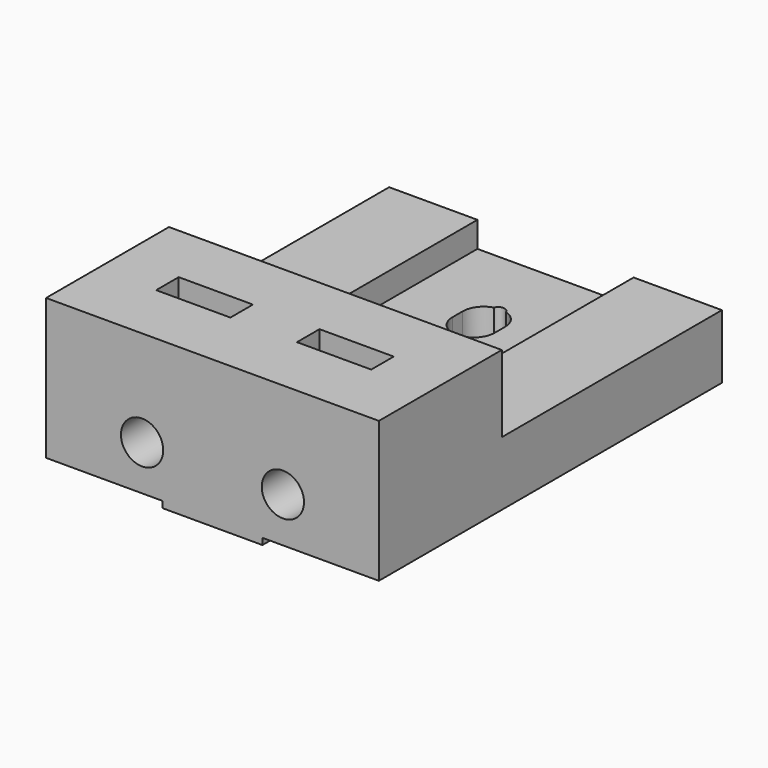
from build123d import *

# Parameters (mm, degrees)
BOX095_W           = 5.8
BOX095_H           = 2.2
BOX095_DEPTH       = 11
BOX096_W           = 5.8
BOX096_H           = 2.2
BOX096_DEPTH       = 11
CYLINDER028_R      = 1.65
CYLINDER028_DEPTH  = 10
CYLINDER029_R      = 1.65
CYLINDER029_DEPTH  = 10
BOX169_W           = 7.8
BOX169_H           = 5.5
BOX169_DEPTH       = 6
CHAMFER008003_SIZE = 5
BOX093_W           = 7.8
BOX093_H           = 5.5
BOX093_DEPTH       = 4
CYLINDER027_R      = 0.5
CYLINDER027_DEPTH  = 13
CYLINDER067_R      = 1.65
CYLINDER067_DEPTH  = 13
BOX105_W           = 3.3
BOX105_H           = 1
BOX105_DEPTH       = 10
CYLINDER030_R      = 1.65
CYLINDER030_DEPTH  = 13
BOX102_W           = 12.2
BOX102_H           = 18.6
BOX102_DEPTH       = 2
BOX104_W           = 26
BOX104_H           = 33.5
BOX104_DEPTH       = 3
BOX100_W           = 26
BOX100_H           = 12
BOX100_DEPTH       = 11
BOX099_W           = 7
BOX099_H           = 33.5
BOX099_DEPTH       = 5
BOX098_W           = 7
BOX098_H           = 33.5
BOX098_DEPTH       = 5
BOX168_W           = 7.8
BOX168_H           = 33.5
BOX168_DEPTH       = 0.5
BOX101_W           = 26
BOX101_H           = 15
BOX101_DEPTH       = 5


with BuildPart() as box095:
    # Box095 → Box095 (new body)
    with BuildSketch(Plane(origin=(2.6, 5, 0.5), x_dir=(1, 0, 0), z_dir=(0, 0, 1))):
        with Locations((2.9, 1.1)):
            Rectangle(BOX095_W, BOX095_H)
    extrude(amount=BOX095_DEPTH)


with BuildPart() as box096:
    # Box096 → Box096 (new body)
    with BuildSketch(Plane(origin=(-8.4, 5, 0.5), x_dir=(1, 0, 0), z_dir=(0, 0, 1))):
        with Locations((2.9, 1.1)):
            Rectangle(BOX096_W, BOX096_H)
    extrude(amount=BOX096_DEPTH)


with BuildPart() as cylinder028:
    # Cylinder028 → Cylinder028 (new body)
    with BuildSketch(Plane(origin=(-5.5, 10, 3.5), x_dir=(1, 0, 0), z_dir=(0, -1, 0))):
        Circle(CYLINDER028_R)
    extrude(amount=CYLINDER028_DEPTH)


with BuildPart() as fusion032:
    # Cylinder029 → Cylinder029 (new body)
    with BuildSketch(Plane(origin=(5.5, 10, 3.5), x_dir=(1, 0, 0), z_dir=(0, -1, 0))):
        Circle(CYLINDER029_R)
    extrude(amount=CYLINDER029_DEPTH)

    # Fusion032: union Cylinder028
    add(cylinder028.part)


with BuildPart() as chamfer008003:
    # Box169 → Box169 (new body)
    with BuildSketch(Plane(origin=(-3.9, 8, -11), x_dir=(1, 0, 0), z_dir=(0, 0, 1))):
        with Locations((3.9, 2.75)):
            Rectangle(BOX169_W, BOX169_H)
    extrude(amount=BOX169_DEPTH)

    # Chamfer008003
    chamfer008003_edges = [chamfer008003.edges().sort_by_distance(p)[0] for p in [
        (0, 13.5, -5),
    ]]
    chamfer(chamfer008003_edges, length=CHAMFER008003_SIZE)


with BuildPart() as chamfer008003_1:
    # Chamfer008003 placement: moved
    add(chamfer008003.part.moved(Location((0, 4, 5))))


with BuildPart() as cut001003002044:
    # Box093 → Box093 (new body)
    with BuildSketch(Plane(origin=(-3.9, 13, -4), x_dir=(1, 0, 0), z_dir=(0, 0, 1))):
        with Locations((3.9, 2.75)):
            Rectangle(BOX093_W, BOX093_H)
    extrude(amount=BOX093_DEPTH)

    # Cut001003002044: cut Chamfer008003
    add(chamfer008003_1.part, mode=Mode.SUBTRACT)


with BuildPart() as rail_bolt013:
    # Cylinder027 → Cylinder027 (new body)
    with BuildSketch(Plane(origin=(0, 27.9, -0.5), x_dir=(1, 0, 0), z_dir=(0, 0, 1))):
        Circle(CYLINDER027_R)
    extrude(amount=CYLINDER027_DEPTH)


with BuildPart() as rail_bolt025:
    # Cylinder067 → Cylinder067 (new body)
    with BuildSketch(Plane(origin=(0, 26.5, 0), x_dir=(1, 0, 0), z_dir=(0, 0, 1))):
        Circle(CYLINDER067_R)
    extrude(amount=CYLINDER067_DEPTH)


with BuildPart() as bolt_spacer:
    # Box105 → Box105 (new body)
    with BuildSketch(Plane(origin=(-1.65, 25.5, 0), x_dir=(1, 0, 0), z_dir=(0, 0, 1))):
        with Locations((1.65, 0.5)):
            Rectangle(BOX105_W, BOX105_H)
    extrude(amount=BOX105_DEPTH)


with BuildPart() as fusion:
    # Cylinder030 → Cylinder030 (new body)
    with BuildSketch(Plane(origin=(0, 25.5, 0), x_dir=(1, 0, 0), z_dir=(0, 0, 1))):
        Circle(CYLINDER030_R)
    extrude(amount=CYLINDER030_DEPTH)

    # Fusion: union rail-bolt025, bolt-spacer
    add(rail_bolt025.part)
    add(bolt_spacer.part)


with BuildPart() as fusion_1:
    # Fusion placement: moved
    add(fusion.part.moved(Location((0, 0, -2))))


with BuildPart() as f_01_cut_out007:
    # Box102 → Box102 (new body)
    with BuildSketch(Plane(origin=(-6.1, 14.9, 3), x_dir=(1, 0, 0), z_dir=(0, 0, 1))):
        with Locations((6.1, 9.3)):
            Rectangle(BOX102_W, BOX102_H)
    extrude(amount=BOX102_DEPTH)


with BuildPart() as base006:
    # Box104 → Box104 (new body)
    with BuildSketch(Plane(origin=(-13, 0, 0), x_dir=(1, 0, 0), z_dir=(0, 0, 1))):
        with Locations((13, 16.75)):
            Rectangle(BOX104_W, BOX104_H)
    extrude(amount=BOX104_DEPTH)


with BuildPart() as head_stopper004:
    # Box100 → Box100 (new body)
    with BuildSketch(Plane(origin=(-13, 0, 0), x_dir=(1, 0, 0), z_dir=(0, 0, 1))):
        with Locations((13, 6)):
            Rectangle(BOX100_W, BOX100_H)
    extrude(amount=BOX100_DEPTH)


with BuildPart() as box099:
    # Box099 → Box099 (new body)
    with BuildSketch(Plane(origin=(6, 0, 0), x_dir=(1, 0, 0), z_dir=(0, 0, 1))):
        with Locations((3.5, 16.75)):
            Rectangle(BOX099_W, BOX099_H)
    extrude(amount=BOX099_DEPTH)


with BuildPart() as box098:
    # Box098 → Box098 (new body)
    with BuildSketch(Plane(origin=(-13, 0, 0), x_dir=(1, 0, 0), z_dir=(0, 0, 1))):
        with Locations((3.5, 16.75)):
            Rectangle(BOX098_W, BOX098_H)
    extrude(amount=BOX098_DEPTH)


with BuildPart() as bolt_stopper005:
    # Box168 → Box168 (new body)
    with BuildSketch(Plane(origin=(-3.9, 0, -0.5), x_dir=(1, 0, 0), z_dir=(0, 0, 1))):
        with Locations((3.9, 16.75)):
            Rectangle(BOX168_W, BOX168_H)
    extrude(amount=BOX168_DEPTH)


with BuildPart() as cut001003002047034:
    # Box101 → Box101 (new body)
    with BuildSketch(Plane(origin=(-13, 0, 0), x_dir=(1, 0, 0), z_dir=(0, 0, 1))):
        with Locations((13, 7.5)):
            Rectangle(BOX101_W, BOX101_H)
    extrude(amount=BOX101_DEPTH)

    # Fusion030: union base006, head-stopper004, Box099, Box098, bolt-stopper005
    add(base006.part)
    add(head_stopper004.part)
    add(box099.part)
    add(box098.part)
    add(bolt_stopper005.part)

    # Cut001003002041: cut 01-cut-out007
    add(f_01_cut_out007.part, mode=Mode.SUBTRACT)

    # Cut001003002042: cut Fusion
    add(fusion_1.part, mode=Mode.SUBTRACT)

    # Cut001003002043: cut rail-bolt013
    add(rail_bolt013.part, mode=Mode.SUBTRACT)

    # Fusion031: union Cut001003002044
    add(cut001003002044.part)

    # Cut001003002045: cut Fusion032
    add(fusion032.part, mode=Mode.SUBTRACT)

    # Cut001003002047033: cut Box096
    add(box096.part, mode=Mode.SUBTRACT)

    # Cut001003002047034: cut Box095
    add(box095.part, mode=Mode.SUBTRACT)


solid = cut001003002047034.part
